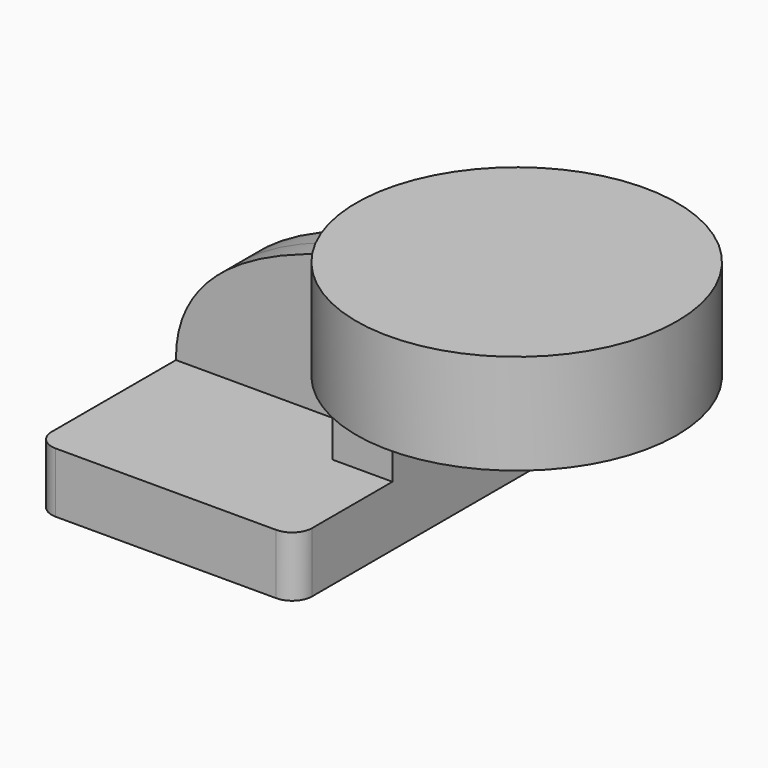
from build123d import *

# Parameters (mm, degrees)
F1_DEPTH = 63.5
F0_W     = 25.4
F0_H     = 19.05
F2_DEPTH = 25.4
F3_DEPTH = 7.9375
F4_R     = 6.35


with BuildPart() as f1:
    # F0 (on Front) → F1 (new body, symmetric)
    with BuildSketch(Plane.XZ):
        Polygon((22.225, 9.525), (-41.275, 9.525), (-41.275, -9.525), (41.275, -9.525), (41.275, 9.525), align=None)
    extrude(amount=F1_DEPTH, both=True)

    # F0 (on Front) → F2 (join, symmetric)
    with BuildSketch(Plane.XZ):
        with BuildLine():
            Line((22.225, 27.0002), (22.225, 9.525))
            Line((22.225, 9.525), (41.275, 9.525))
            Line((41.275, 9.525), (41.275, 27.0002))
            ThreePointArc((41.275, 27.0002), (45.92468, 38.22552), (57.15, 42.8752))
            Line((57.15, 42.8752), (60.325, 42.8752))
            Line((60.325, 42.8752), (60.325, 61.9252))
            Line((60.325, 61.9252), (57.15, 61.9252))
            add(Edge.make_bspline(
                [(54.461055, 61.821533), (55.368857, 61.861839), (56.265521, 61.896322), (57.15, 61.9252)],
                knots=[108.919316, 108.919316, 108.919316, 108.919316, 111.504536, 111.504536, 111.504536, 111.504536], degree=3))
            ThreePointArc((54.461055, 61.821533), (31.521236, 50.72618), (22.225, 27.0002))
        make_face()
        with Locations((73.025, 52.4002)):
            Rectangle(F0_W, F0_H)
    extrude(amount=F2_DEPTH, both=True)

    # F0 (on Front) → F3 (join, symmetric)
    with BuildSketch(Plane.XZ):
        with BuildLine():
            add(Edge.make_bspline(
                [(-41.275, 9.525), (-41.804163, 48.089928), (16.213946, 60.123374), (54.461055, 61.821533)],
                knots=[0, 0, 0, 0, 108.919316, 108.919316, 108.919316, 108.919316], degree=3))
            Line((-41.275, 9.525), (22.225, 9.525))
            Line((22.225, 9.525), (22.225, 27.0002))
            ThreePointArc((22.225, 27.0002), (31.521236, 50.72618), (54.461055, 61.821533))
        make_face()
    extrude(amount=F3_DEPTH, both=True)

    # F4
    f4_edges = [f1.edges().sort_by_distance(p)[0] for p in [
        (-41.275, -63.5, 0),
        (41.275, -63.5, 0),
        (41.275, 63.5, 0),
        (-41.275, 63.5, 0),
    ]]
    fillet(f4_edges, radius=F4_R)

    # F0 (on Front) → F5 (revolve)
    with BuildSketch(Plane.XZ):
        Polygon((60.325, 66.675), (60.325, 61.9252), (85.725, 61.9252), (85.725, 42.8752), (60.325, 42.8752), (60.325, 34.925), (111.125, 34.925), (111.125, 66.675), align=None)
    revolve(axis=Axis((60.325, 0, 50.8), (0, 0, 1)))


solid = f1.part
